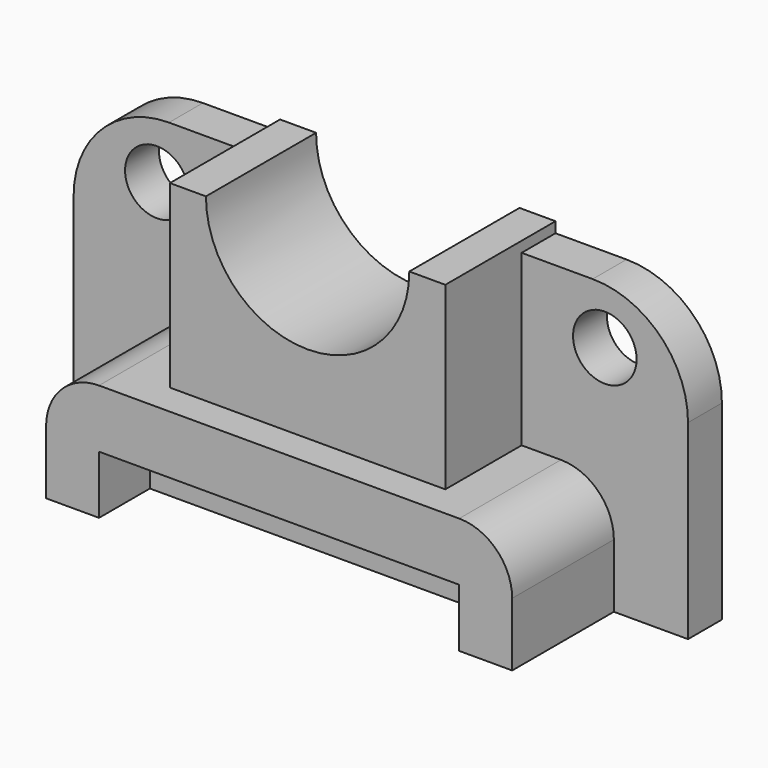
from build123d import *

# Parameters (mm, degrees)
F1_DEPTH = 80
F2_W     = 170
F2_H     = 27.5
F3_DEPTH = 30
F6_DEPTH = 65
F8_R     = 15
F9_DEPTH = 20


with BuildPart() as f1:
    # F0 (on Front) → F1 (new body)
    with BuildSketch(Plane.XZ):
        with BuildLine():
            ThreePointArc((110, 2.5), (102.6776695297, 20.1776695297), (85, 27.5))
            Line((85, 27.5), (-85, 27.5))
            ThreePointArc((-85, 27.5), (-102.6776695297, 20.1776695297), (-110, 2.5))
            Line((-110, 2.5), (-110, -27.5))
            Line((-110, -27.5), (110, -27.5))
            Line((110, -27.5), (110, 2.5))
        make_face()
    extrude(amount=F1_DEPTH)

    # F2 (on face) → F3 (cut)
    with BuildSketch(Plane.XZ.offset(80)):
        with Locations((0, -13.75)):
            Rectangle(F2_W, F2_H)
    extrude(amount=-F3_DEPTH, mode=Mode.SUBTRACT)

    # F5 (on offset) → F6 (join)
    with BuildSketch(Plane.XZ.offset(65)):
        with BuildLine():
            Line((-46.5551204979, 112.5), (-63.5551204979, 112.5))
            Line((-63.5551204979, 112.5), (-63.5551204979, 27.5))
            Line((-63.5551204979, 27.5), (66.4448795021, 27.5))
            Line((66.4448795021, 27.5), (66.4448795021, 112.5))
            Line((66.4448795021, 112.5), (49.4448795021, 112.5))
            ThreePointArc((49.4448795021, 112.5), (1.4448795021, 64.5), (-46.5551204979, 112.5))
        make_face()
    extrude(amount=-F6_DEPTH)

    # F8 (on offset) → F9 (join)
    with BuildSketch(Plane.XZ):
        with BuildLine():
            Line((100, 107.5), (66.4448795021, 107.5))
            Line((66.4448795021, 107.5), (66.4448795021, 27.5))
            Line((66.4448795021, 27.5), (85, 27.5))
            ThreePointArc((85, 27.5), (102.6776695297, 20.1776695297), (110, 2.5))
            Line((110, 2.5), (110, -27.5))
            Line((110, -27.5), (145, -27.5))
            Line((145, -27.5), (145, 62.5))
            ThreePointArc((145, 62.5), (131.8198051534, 94.3198051534), (100, 107.5))
        make_face()
        with Locations((105.722439751, 80.8619317412)):
            Circle(F8_R, mode=Mode.SUBTRACT)
        with BuildLine():
            ThreePointArc((-100, 107.5), (-131.8198051534, 94.3198051534), (-145, 62.5))
            Line((-145, 62.5), (-145, -27.5))
            Line((-145, -27.5), (-110, -27.5))
            Line((-110, -27.5), (-110, 2.5))
            ThreePointArc((-110, 2.5), (-102.6776695297, 20.1776695297), (-85, 27.5))
            Line((-85, 27.5), (-63.5551204979, 27.5))
            Line((-63.5551204979, 27.5), (-63.5551204979, 107.5))
            Line((-63.5551204979, 107.5), (-100, 107.5))
        make_face()
        with Locations((-105.722439751, 80.8619317412)):
            Circle(F8_R, mode=Mode.SUBTRACT)
    extrude(amount=F9_DEPTH)


solid = f1.part
